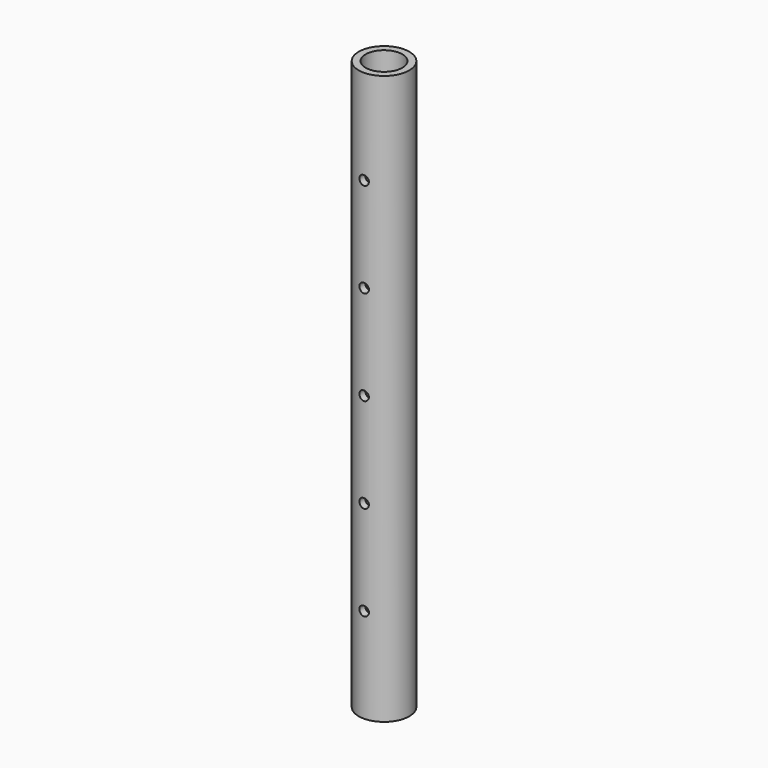
from build123d import *

# Parameters (mm, degrees)
F0_R          = 10.16
F0_R_2        = 7.366
F1_DEPTH      = 228.6
F2_R          = 1.905
F3_DEPTH      = 25.4
F3_DEPTH_BACK = 25.4


with BuildPart() as f1:
    # F0 (on Top) → F1 (new body)
    with BuildSketch(Plane.XY):
        Circle(F0_R)
        Circle(F0_R_2, mode=Mode.SUBTRACT)
    extrude(amount=F1_DEPTH)

    # F2 (on Front) → F3 (cut, two sides)
    with BuildSketch(Plane.XZ) as f3_sk:
        with Locations((0, 38.1)):
            Circle(F2_R)
        with Locations((0, 76.2)):
            Circle(F2_R)
        with Locations((0, 114.3)):
            Circle(F2_R)
        with Locations((0, 152.4)):
            Circle(F2_R)
        with Locations((0, 190.5)):
            Circle(F2_R)
    extrude(amount=-F3_DEPTH, mode=Mode.SUBTRACT)
    extrude(f3_sk.sketch, amount=F3_DEPTH_BACK, mode=Mode.SUBTRACT)


solid = f1.part
